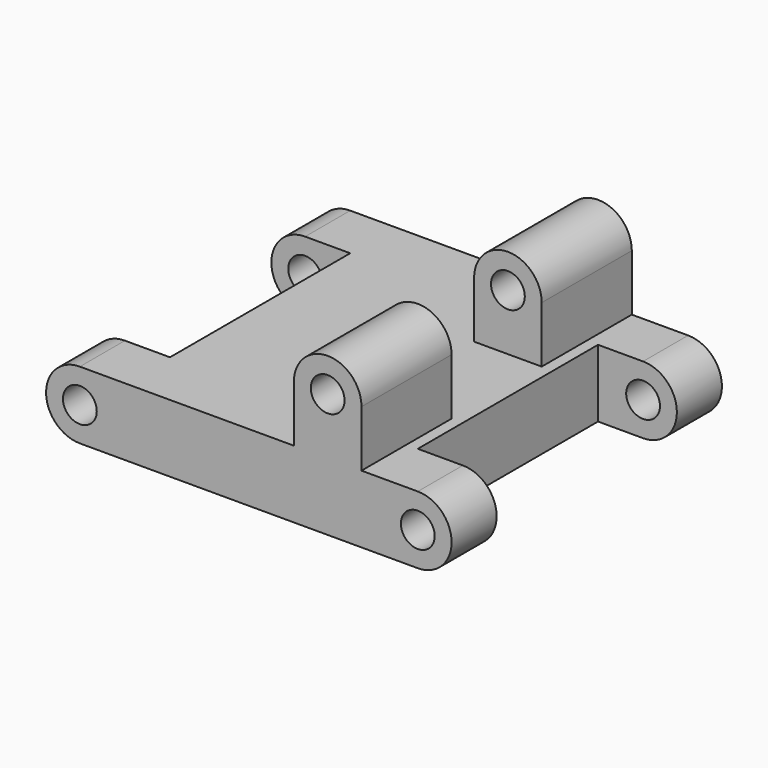
from build123d import *

# Parameters (mm, degrees)
PAD_DEPTH            = 15
SKETCH001_W          = 7
SKETCH001_H          = 20
POCKET_DEPTH         = 97.489094
POCKET_DEPTH_BACK    = 97.489094
SKETCH002_R          = 1.5
POCKET001_DEPTH      = 109.489094
POCKET001_DEPTH_BACK = 109.489094
PAD001_DEPTH         = 10
SKETCH004_R          = 1.5
POCKET002_DEPTH      = 107.817154


with BuildPart() as part:
    # Sketch (on DatumPlane) → Pad (new body, symmetric)
    with BuildSketch(Plane.XZ):
        with BuildLine():
            ThreePointArc((-15, 3), (-18, 0), (-15, -3))
            Line((-15, -3), (15, -3))
            ThreePointArc((15, -3), (18, 0), (15, 3))
            Line((-15, 3), (15, 3))
        make_face()
    extrude(amount=PAD_DEPTH, both=True)

    # Sketch001 (on DatumPlane) → Pocket (cut, two sides)
    with BuildSketch(Plane.XY) as pocket_sk:
        with Locations((-14.5, 0)):
            Rectangle(SKETCH001_W, SKETCH001_H)
    pocket = extrude(amount=-POCKET_DEPTH, mode=Mode.SUBTRACT) + extrude(pocket_sk.sketch, amount=POCKET_DEPTH_BACK, mode=Mode.SUBTRACT)

    # Mirrored: Pocket across YZ
    add(pocket.mirror(Plane.YZ), mode=Mode.SUBTRACT)

    # Sketch002 (on DatumPlane) → Pocket001 (cut, two sides)
    with BuildSketch(Plane.XZ) as pocket001_sk:
        with Locations((-15, 0)):
            Circle(SKETCH002_R)
    pocket001 = extrude(amount=-POCKET001_DEPTH, mode=Mode.SUBTRACT) + extrude(pocket001_sk.sketch, amount=POCKET001_DEPTH_BACK, mode=Mode.SUBTRACT)

    # Mirrored001: Pocket001 across YZ
    add(pocket001.mirror(Plane.YZ), mode=Mode.SUBTRACT)

    # Sketch003 (on DatumPlane) → Pad001 (join)
    with BuildSketch(Plane.XZ.offset(5)):
        with BuildLine():
            Line((4, 8), (4, 3))
            Line((4, 3), (10, 3))
            Line((10, 3), (10, 8))
            ThreePointArc((10, 8), (7, 11), (4, 8))
        make_face()
    pad001 = extrude(amount=PAD001_DEPTH)

    # Sketch004 (on DatumPlane) → Pocket002 (cut, through all)
    with BuildSketch(Plane.XZ.offset(5)):
        with Locations((7, 8)):
            Circle(SKETCH004_R)
    pocket002 = extrude(amount=POCKET002_DEPTH, mode=Mode.SUBTRACT)

    # Mirrored002: Pad001, Pocket002 across XZ
    add(pad001.mirror(Plane.XZ))
    add(pocket002.mirror(Plane.XZ), mode=Mode.SUBTRACT)


solid = part.part
